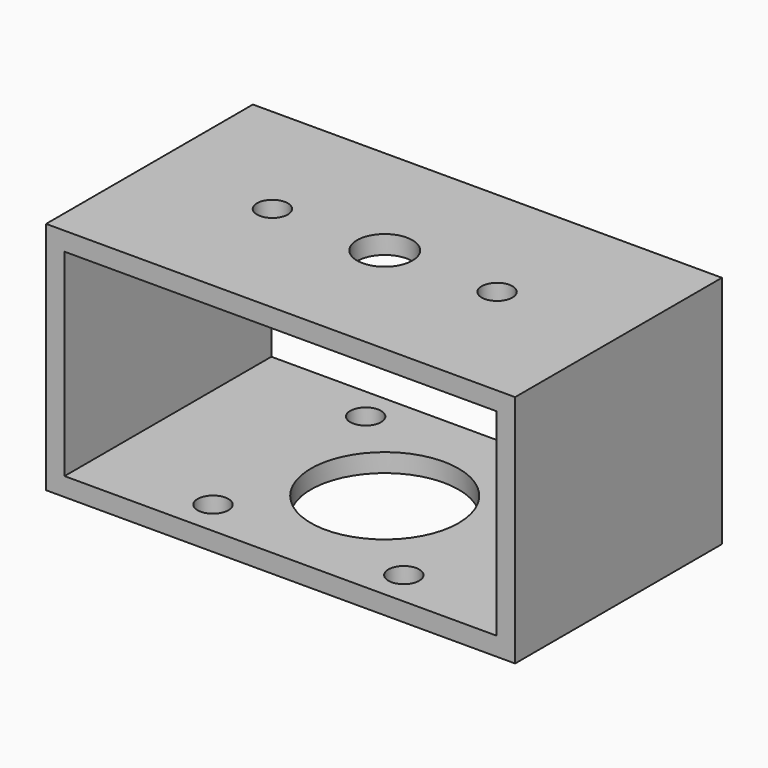
from build123d import *

# Parameters (mm, degrees)
F0_W     = 76.2
F0_H     = 38.1
F0_W_2   = 70.2
F0_H_2   = 32.1
F1_DEPTH = 42
F2_R     = 2.5
F2_R_2   = 12
F3_DEPTH = 5
F4_R     = 4.5
F5_DEPTH = 5
F7_D     = 5
F7_DEPTH = 10


with BuildPart() as f1:
    # F0 (on Front) → F1 (new body)
    with BuildSketch(Plane.XZ):
        with Locations((38.1, 19.05)):
            Rectangle(F0_W, F0_H)
        with Locations((38.1, 19.05)):
            Rectangle(F0_W_2, F0_H_2, mode=Mode.SUBTRACT)
    extrude(amount=F1_DEPTH)

    # F2 (on face) → F3 (cut)
    with BuildSketch(Plane.XY.offset(3)):
        with Locations((53.6, -5.35)):
            Circle(F2_R)
        with Locations((53.6, -36.35)):
            Circle(F2_R)
        with Locations((22.6, -36.35)):
            Circle(F2_R)
        with Locations((22.6, -5.35)):
            Circle(F2_R)
        with Locations((38.1, -20.85)):
            Circle(F2_R_2)
    extrude(amount=-F3_DEPTH, mode=Mode.SUBTRACT)

    # F4 (on face) → F5 (cut)
    with BuildSketch(Plane(origin=(0, 0, 35.1), x_dir=(1, 0, 0), z_dir=(0, 0, -1))):
        with Locations((38.1, 20.85)):
            Circle(F4_R)
    extrude(amount=-F5_DEPTH, mode=Mode.SUBTRACT)

    # F7
    with Locations(Plane.XY.offset(38.1)):
        with Locations((19.85, -20.85), (56.35, -20.85)):
            Hole(F7_D / 2, depth=F7_DEPTH)


solid = f1.part
